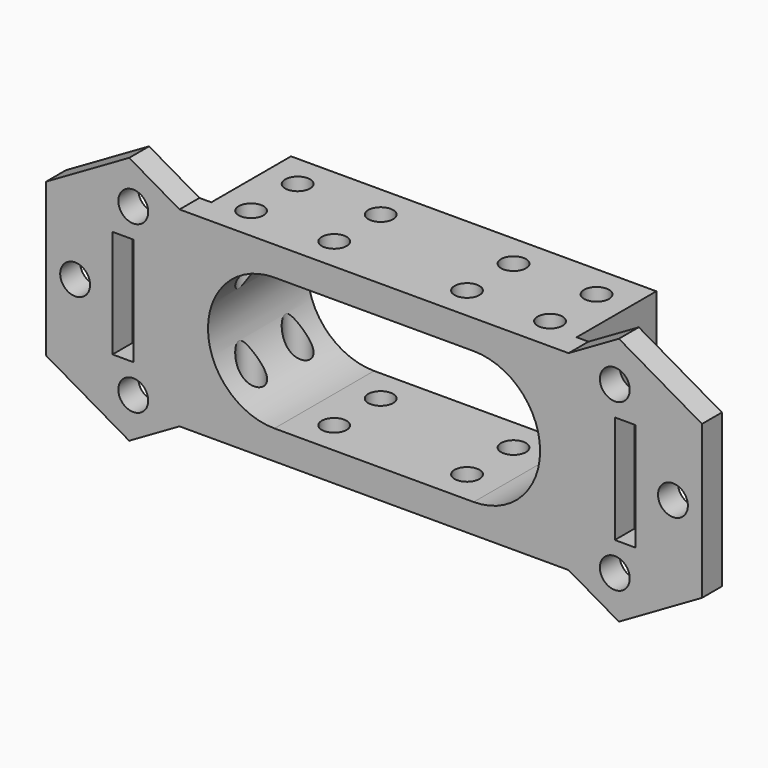
from build123d import *

# Parameters (mm, degrees)
SKETCH225_R     = 1.5
PAD127060_DEPTH = 100
SKETCH223_R     = 1.8
SKETCH223_W     = 2.5
SKETCH223_H     = 13
PAD127058_DEPTH = 3
SKETCH224_W     = 44
SKETCH224_H     = 23
PAD127059_DEPTH = 15


with BuildPart() as mountingscrewcutouts:
    # Sketch225 → Pad127060 (new body)
    with BuildSketch(Plane(origin=(50, 160, 11.5), x_dir=(1, 0, 0), z_dir=(0, 0, 1))):
        with Locations((-32, -63)):
            Circle(SKETCH225_R)
        with Locations((-42, -63)):
            Circle(SKETCH225_R)
        with Locations((-32, -56)):
            Circle(SKETCH225_R)
        with Locations((-42, -56)):
            Circle(SKETCH225_R)
    extrude(amount=-PAD127060_DEPTH)


with BuildPart() as cutouts:
    # Part__Mirroring016: instance of MountingScrewCutouts
    add(mountingscrewcutouts.part.mirror(Plane(origin=(0, 0, 0), x_dir=(0, -1, 0), z_dir=(1, 0, 0))))

    # Fusion004020033: union MountingScrewCutouts
    add(mountingscrewcutouts.part)


with BuildPart() as baseplate:
    # Sketch223 → Pad127058 (new body)
    with BuildSketch(Plane.XZ.offset(-93)):
        with BuildLine():
            Line((-29.490381, 15), (-39.5, 9.220944))
            Line((-39.5, 9.220944), (-39.5, -9.220944))
            Line((-39.5, -9.220944), (-29.490381, -15))
            Line((-23.428203, -11.5), (-29.490381, -15))
            Line((-23.428203, -11.5), (0, -11.5))
            Line((0, -8), (0, -11.5))
            Line((0, -8), (-12, -8))
            ThreePointArc((-12, 8), (-20, 0), (-12, -8))
            Line((0, 8), (-12, 8))
            Line((0, 11.5), (0, 8))
            Line((-23.428203, 11.5), (0, 11.5))
            Line((-29.490381, 15), (-23.428203, 11.5))
        make_face()
        with Locations((-29, 10)):
            Circle(SKETCH223_R, mode=Mode.SUBTRACT)
        with Locations((-29, -10)):
            Circle(SKETCH223_R, mode=Mode.SUBTRACT)
        with Locations((-36, 0)):
            Circle(SKETCH223_R, mode=Mode.SUBTRACT)
        with Locations((-30.25, 0)):
            Rectangle(SKETCH223_W, SKETCH223_H, mode=Mode.SUBTRACT)
    extrude(amount=-PAD127058_DEPTH)


with BuildPart() as mountingblock:
    # Sketch224 → Pad127059 (new body)
    with BuildSketch(Plane.XZ.offset(-93)):
        Rectangle(SKETCH224_W, SKETCH224_H)
        with BuildLine():
            ThreePointArc((-12, 8), (-20, 0), (-12, -8))
            Line((-12, -8), (12, -8))
            ThreePointArc((12, -8), (20, 0), (12, 8))
            Line((-12, 8), (12, 8))
        make_face(mode=Mode.SUBTRACT)
    extrude(amount=-PAD127059_DEPTH)


with BuildPart() as interfaceblock:
    # Part__Mirroring015: instance of BasePlate
    add(baseplate.part.mirror(Plane(origin=(0, 0, 0), x_dir=(0, -1, 0), z_dir=(1, 0, 0))))

    # Fusion004020032: union BasePlate, MountingBlock
    add(baseplate.part)
    add(mountingblock.part)

    # Cut007019030: cut Cutouts
    add(cutouts.part, mode=Mode.SUBTRACT)


solid = interfaceblock.part
